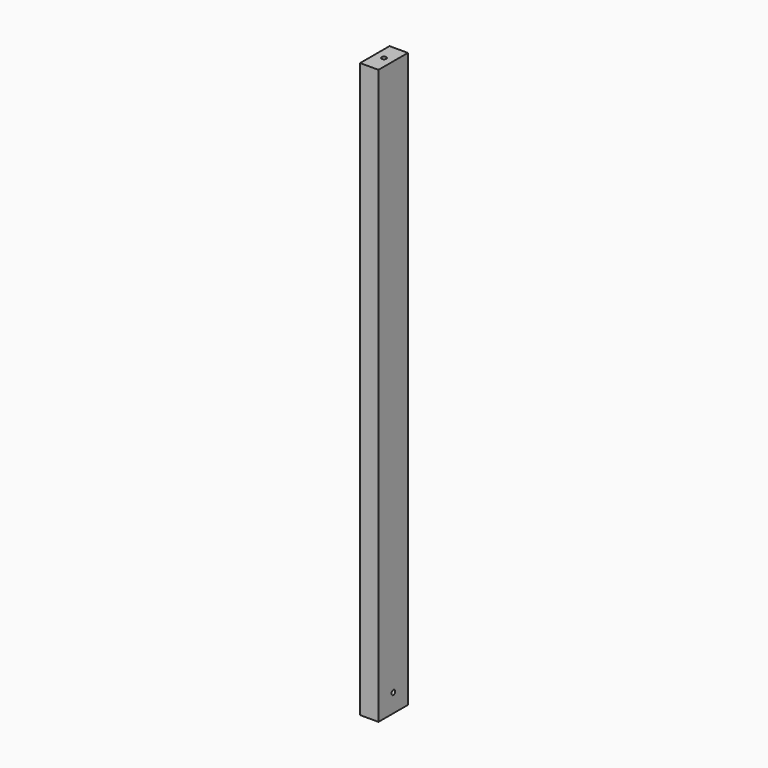
from build123d import *

# Parameters (mm, degrees)
SKETCH088_W     = 24
SKETCH088_H     = 48
PAD049_DEPTH    = 750
SKETCH089_R     = 3
POCKET039_DEPTH = 24.001
SKETCH090_R     = 3
POCKET040_DEPTH = 24


with BuildPart() as part:
    # Sketch088 → Pad049 (new body)
    with BuildSketch(Plane.XY):
        with Locations((12, 24)):
            Rectangle(SKETCH088_W, SKETCH088_H)
    extrude(amount=PAD049_DEPTH)

    # Sketch089 (on Face2 of Pad049) → Pocket039 (cut, through all)
    with BuildSketch(Plane.YZ.offset(24)):
        with Locations((24.319635, 24)):
            Circle(SKETCH089_R)
    extrude(amount=-POCKET039_DEPTH, mode=Mode.SUBTRACT)

    # Sketch090 (on Face5 of Pocket039) → Pocket040 (cut)
    with BuildSketch(Plane.XY.offset(750)):
        with Locations((12, 24)):
            Circle(SKETCH090_R)
    extrude(amount=-POCKET040_DEPTH, mode=Mode.SUBTRACT)


solid = part.part
